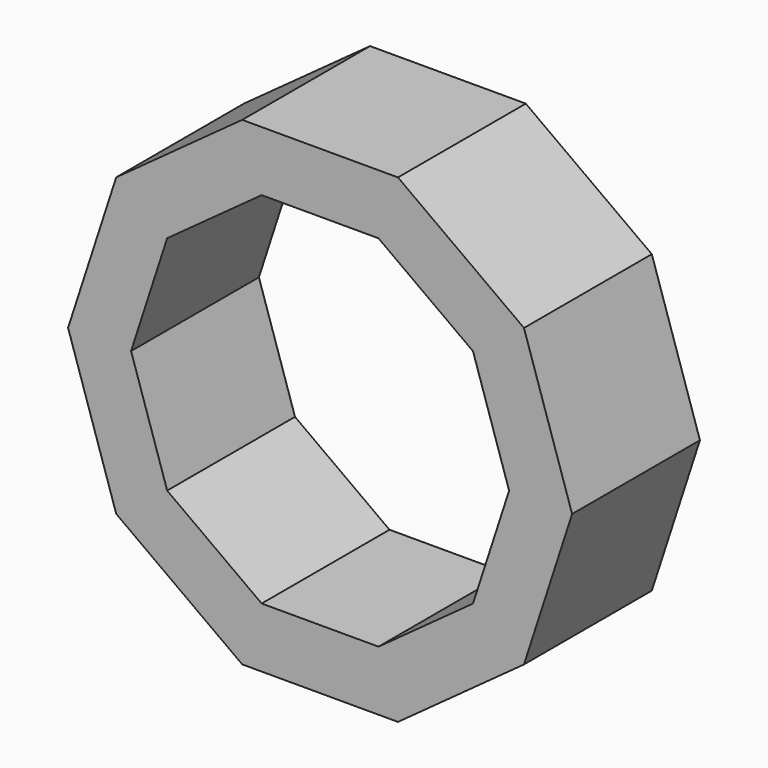
from build123d import *

# Parameters (mm, degrees)
F1_DEPTH = 25.4


with BuildPart() as f1:
    # F0 (on Front) → F1 (new body)
    with BuildSketch(Plane.XZ):
        Polygon((12.3794404265, 38.1), (0, 38.1), (-12.3794404265, 38.1), (-32.4097957982, 23.5470949714), (-40.0607107435, 0), (-32.4097957982, -23.5470949714), (-12.3794404265, -38.1), (12.3794404265, -38.1), (32.4097957982, -23.5470949714), (40.0607107435, 0), (32.4097957982, 23.5470949714), align=None)
        Polygon((-9.2845803199, 28.575), (0, 28.575), (9.2845803199, 28.575), (24.3073468487, 17.6603212285), (30.0455330576, 0), (24.3073468487, -17.6603212285), (9.2845803199, -28.575), (-9.2845803199, -28.575), (-24.3073468487, -17.6603212285), (-30.0455330576, 0), (-24.3073468487, 17.6603212285), align=None, mode=Mode.SUBTRACT)
    extrude(amount=F1_DEPTH)


solid = f1.part
